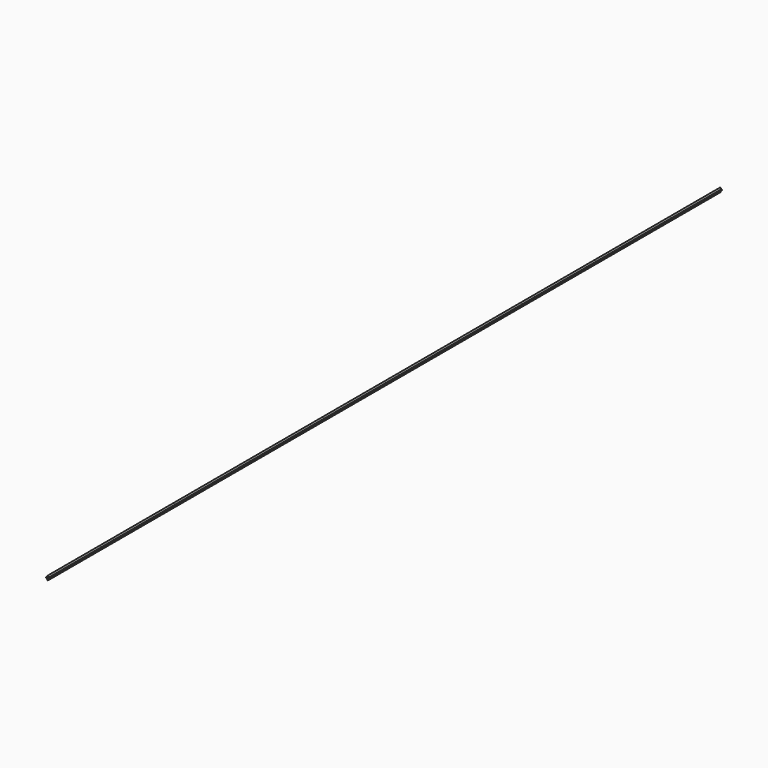
from build123d import *

# Parameters (mm, degrees)
F0_R     = 0.4064
F0_R_2   = 0.08001
F1_DEPTH = 405


with BuildPart() as f1:
    # F0 (on Front) → F1 (new body)
    with BuildSketch(Plane.XZ):
        with Locations((0, 0.8382)):
            Circle(F0_R)
        Circle(F0_R)
        with Locations((-0.46609, 0.4191)):
            Circle(F0_R_2)
        with Locations((-0.65151, 0.51181)):
            Circle(F0_R_2)
        with Locations((-0.65151, 0.318008)):
            Circle(F0_R_2)
        with Locations((0.46609, 0.4191)):
            Circle(F0_R_2)
        with Locations((0.65151, 0.51181)):
            Circle(F0_R_2)
        with Locations((0.65151, 0.318008)):
            Circle(F0_R_2)
        with Locations((0.09271, -0.5588)):
            Circle(F0_R_2)
        with Locations((-0.09271, -0.5588)):
            Circle(F0_R_2)
    extrude(amount=F1_DEPTH)


solid = f1.part
